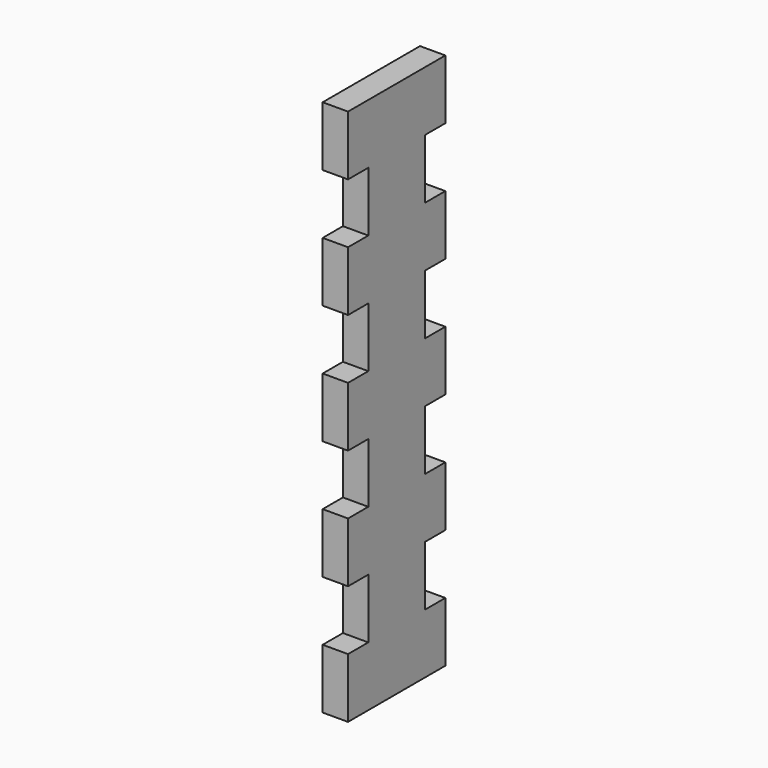
from build123d import *

# Parameters (mm, degrees)
F1_DEPTH = 3.175


with BuildPart() as f1:
    # F0 (on Right) → F1 (new body)
    with BuildSketch(Plane.YZ):
        Polygon((-71.120002, 59.831111), (-86.360002, 59.831111), (-86.360002, 52.352222), (-83.185002, 52.352222), (-83.185002, 44.873333), (-86.360002, 44.873333), (-86.360002, 37.394444), (-83.185002, 37.394444), (-83.185002, 29.915556), (-86.360002, 29.915556), (-86.360002, 22.436667), (-83.185002, 22.436667), (-83.185002, 14.957778), (-86.360002, 14.957778), (-86.360002, 7.478889), (-83.185002, 7.478889), (-83.185002, 0), (-86.360002, 0), (-86.360002, -7.478889), (-71.120002, -7.478889), (-71.120002, 0), (-74.295002, 0), (-74.295002, 7.478889), (-71.120002, 7.478889), (-71.120002, 14.957778), (-74.295002, 14.957778), (-74.295002, 22.436667), (-71.120002, 22.436667), (-71.120002, 29.915556), (-74.295002, 29.915556), (-74.295002, 37.394444), (-71.120002, 37.394444), (-71.120002, 44.873333), (-74.295002, 44.873333), (-74.295002, 52.352222), (-71.120002, 52.352222), align=None)
    extrude(amount=F1_DEPTH)


solid = f1.part
